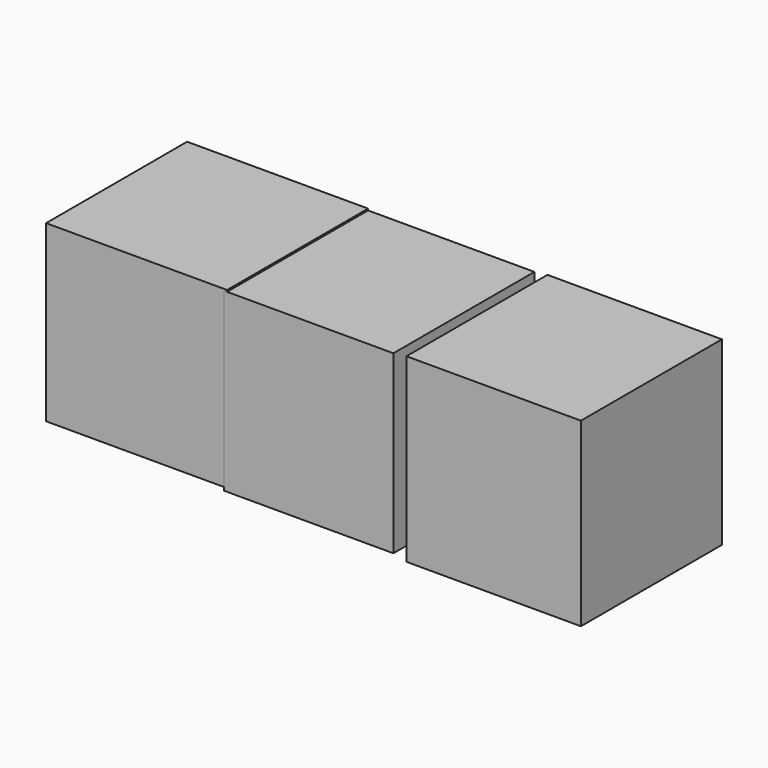
from build123d import *

# Parameters (mm, degrees)
F0_W     = 26.0825566947
F0_H     = 25.142647326
F2_DEPTH = 25.4
F1_W     = 24.4377087802
F1_H     = 25.3776162863
F3_DEPTH = 25.4
F4_W     = 25.1426440664
F4_H     = 26.08256042
F5_DEPTH = 25.4


with BuildPart() as f2:
    # F0 (on Front) → F2 (new body)
    with BuildSketch(Plane.XZ):
        with Locations((-56.277224794, 52.8700463474)):
            Rectangle(F0_W, F0_H)
    extrude(amount=F2_DEPTH)


with BuildPart() as f2b:
    # F1 (on Front) → F2, piece 2 (new body)
    with BuildSketch(Plane.XZ):
        with Locations((-31.4870486036, 52.5175780058)):
            Rectangle(F1_W, F1_H)
    extrude(amount=F2_DEPTH)


with BuildPart() as f3:
    # F1 (on Front) → F3 (new body)
    with BuildSketch(Plane.XZ):
        with Locations((-31.4870486036, 52.5175780058)):
            Rectangle(F1_W, F1_H)
    extrude(amount=F3_DEPTH)


with BuildPart() as f5:
    # F4 (on Front) → F5 (new body)
    with BuildSketch(Plane.XZ):
        with Locations((-4.8170478549, 52.4000898004)):
            Rectangle(F4_W, F4_H)
    extrude(amount=F5_DEPTH)


solid = Compound([f2.part, f2b.part, f3.part, f5.part])
